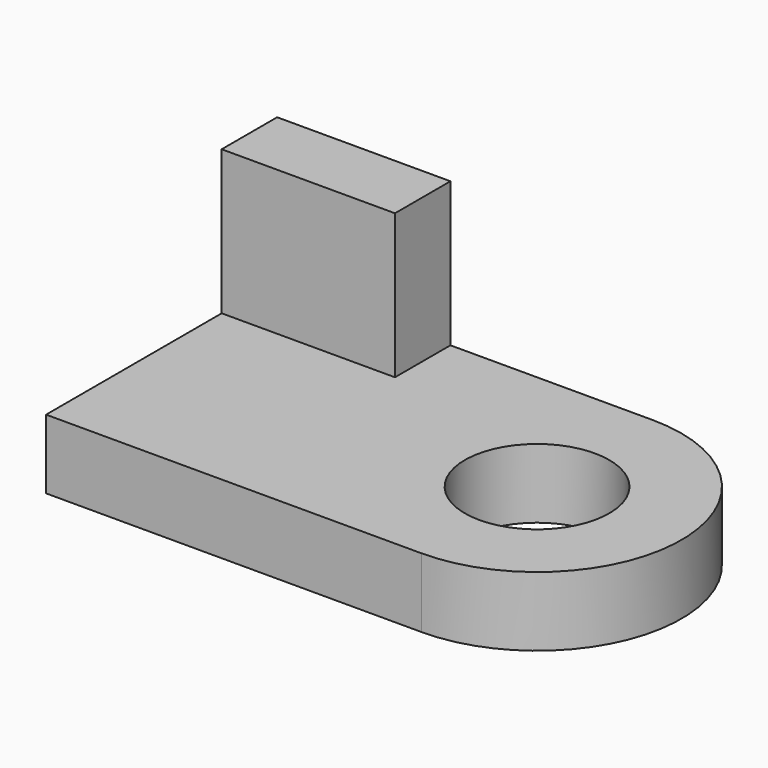
from build123d import *

# Parameters (mm, degrees)
F0_W     = 1651
F0_H     = 1270
F1_DEPTH = 304.8
F2_W     = 762
F2_H     = 304.8
F3_DEPTH = 635
F5_DEPTH = 304.8
F7_DEPTH = 304.8


with BuildPart() as f1:
    # F0 (on Top) → F1 (new body)
    with BuildSketch(Plane.XY):
        with Locations((-825.5, -635)):
            Rectangle(F0_W, F0_H)
    extrude(amount=F1_DEPTH)

    # F2 (on face) → F3 (join)
    with BuildSketch(Plane.XY.offset(304.8)):
        with Locations((-1270, -152.4)):
            Rectangle(F2_W, F2_H)
    extrude(amount=F3_DEPTH)

    # F4 (on face) → F5 (join)
    with BuildSketch(Plane.XY.offset(304.8)):
        with BuildLine():
            ThreePointArc((0, -1270), (449.0128060535, -1084.0128060535), (635, -635))
            ThreePointArc((635, -635), (449.0128060535, -185.9871939465), (0, 0))
            Line((0, 0), (0, -1270))
        make_face()
    extrude(amount=-F5_DEPTH)

    # F6 (on face) → F7 (cut)
    with BuildSketch(Plane.XY.offset(304.8)):
        with BuildLine():
            ThreePointArc((0, -317.5), (-317.5, -635), (0, -952.5))
            Line((0, -952.5), (0, -317.5))
        make_face()
        with BuildLine():
            Line((0, -317.5), (0, -952.5))
            ThreePointArc((0, -952.5), (224.5064030267, -859.5064030267), (317.5, -635))
            ThreePointArc((317.5, -635), (224.5064030267, -410.4935969733), (0, -317.5))
        make_face()
    extrude(amount=-F7_DEPTH, mode=Mode.SUBTRACT)


solid = f1.part
